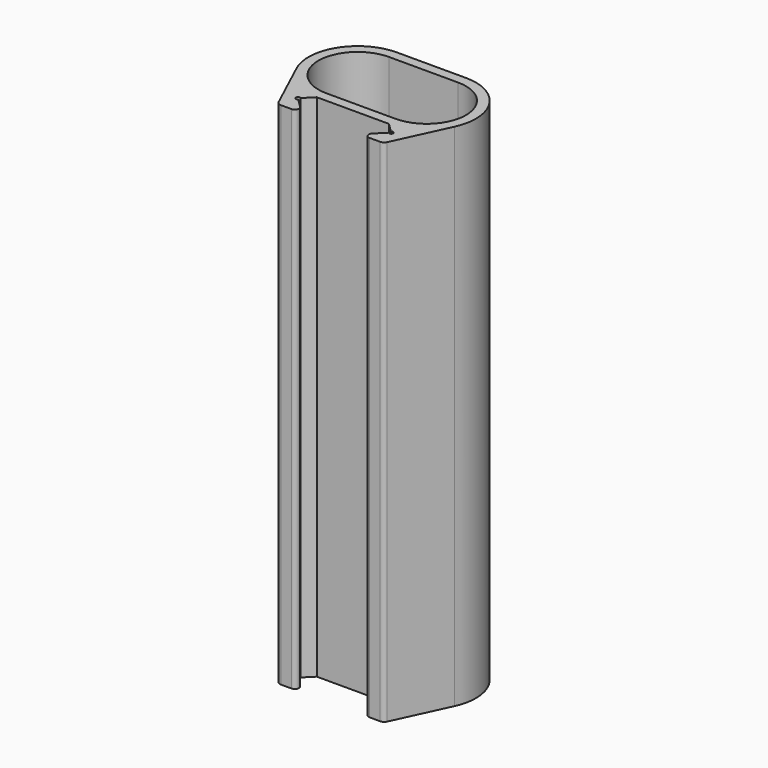
from build123d import *

# Parameters (mm, degrees)
F1_DEPTH = 123.825


with BuildPart() as f1:
    # F0 (on Top) → F1 (new body)
    with BuildSketch(Plane.XY):
        with BuildLine():
            ThreePointArc((-10.949447, -14.291553), (-11.803, -13.938), (-10.949447, -13.584447))
            Line((-10.949447, -13.584447), (-8.756901, -11.391901))
            Line((-8.756901, -11.391901), (8.769099, -11.391901))
            Line((8.769099, -11.391901), (10.955546, -13.578347))
            ThreePointArc((10.955546, -13.578347), (11.809099, -13.931901), (10.955546, -14.285454))
            Line((10.955546, -14.285454), (8.763, -16.478))
            ThreePointArc((8.763, -16.478), (8.546227, -17.56779), (9.470107, -18.185107))
            Line((9.470107, -18.185107), (12.033, -18.185107))
            ThreePointArc((12.033, -18.185107), (12.716208, -17.98568), (13.184849, -17.450031))
            Line((13.184849, -17.450031), (19.203687, -4.489717))
            ThreePointArc((19.203687, -4.489717), (18.440529, 6.948259), (8.388099, 12.458099))
            Line((8.388099, 12.458099), (-8.375901, 12.458099))
            ThreePointArc((-8.375901, 12.458099), (-18.425847, 6.95215), (-19.195375, -4.481341))
            Line((-19.195375, -4.481341), (-13.185263, -17.449139))
            ThreePointArc((-13.185263, -17.449139), (-12.716622, -17.985415), (-12.033, -18.185107))
            Line((-12.033, -18.185107), (-9.470107, -18.185107))
            ThreePointArc((-9.470107, -18.185107), (-8.546227, -17.56779), (-8.763, -16.478))
            Line((-8.763, -16.478), (-10.949447, -14.291553))
        make_face()
        with BuildLine():
            ThreePointArc((8.388099, 10.058099), (17.913099, 0.533099), (8.388099, -8.991901))
            Line((8.388099, -8.991901), (-8.375901, -8.991901))
            ThreePointArc((-8.375901, -8.991901), (-17.900901, 0.533099), (-8.375901, 10.058099))
            Line((-8.375901, 10.058099), (8.388099, 10.058099))
        make_face(mode=Mode.SUBTRACT)
    extrude(amount=F1_DEPTH)


solid = f1.part
